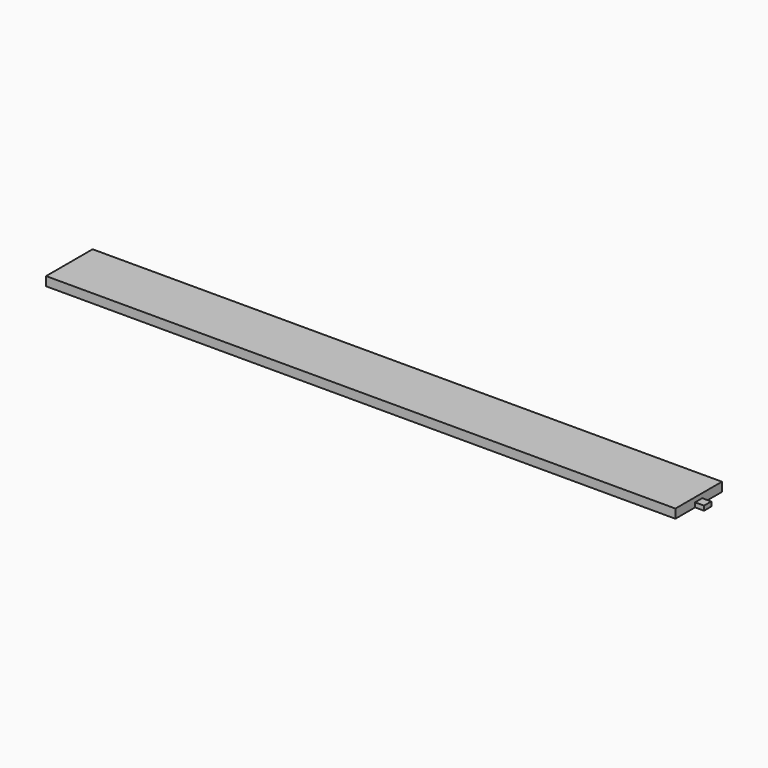
from build123d import *

# Parameters (mm, degrees)
F0_W     = 210
F0_H     = 19.39892
F1_DEPTH = 3
F2_W     = 3
F2_H     = 1.5
F3_DEPTH = 3
F4_W     = 3.5
F4_H     = 2
F5_DEPTH = 4


with BuildPart() as f1:
    # F0 (on Top) → F1 (new body)
    with BuildSketch(Plane.XY):
        Rectangle(F0_W, F0_H)
    extrude(amount=F1_DEPTH)

    # F2 (on face) → F3 (join)
    with BuildSketch(Plane.YZ.offset(105)):
        with Locations((0, 0.75)):
            Rectangle(F2_W, F2_H)
    extrude(amount=F3_DEPTH)

    # F4 (on face) → F5 (cut)
    with BuildSketch(Plane(origin=(-105, 0, 0), x_dir=(0, -1, 0), z_dir=(-1, 0, 0))):
        with Locations((0, 1)):
            Rectangle(F4_W, F4_H)
    extrude(amount=-F5_DEPTH, mode=Mode.SUBTRACT)


solid = f1.part
